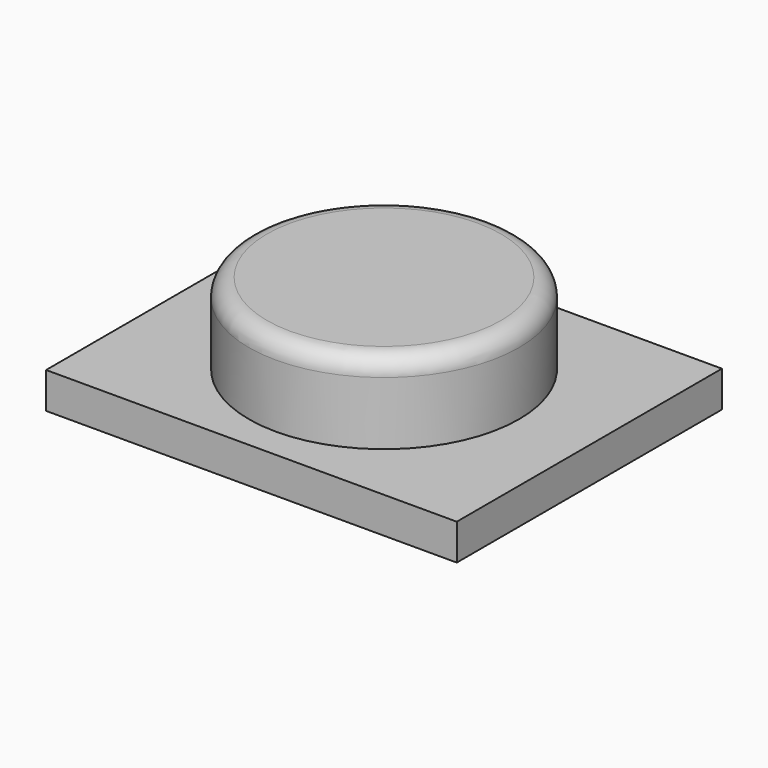
from build123d import *

# Parameters (mm, degrees)
SKETCH037_R  = 0.75
PAD023_DEPTH = 0.45
SKETCH038_W  = 2.28
SKETCH038_H  = 1.84
PAD024_DEPTH = 0.2
FILLET005_R  = 0.1


with BuildPart() as part:
    # Sketch037 (on DatumPlane) → Pad023 (new body)
    with BuildSketch(Plane.XY.offset(1.5)):
        Circle(SKETCH037_R)
    extrude(amount=-PAD023_DEPTH)

    # Sketch038 (on Face3 of Pad023) → Pad024 (join)
    with BuildSketch(Plane(origin=(0, 0, 1.05), x_dir=(1, 0, 0), z_dir=(0, 0, -1))):
        Rectangle(SKETCH038_W, SKETCH038_H)
    extrude(amount=PAD024_DEPTH)

    # Fillet005
    fillet005_edges = [part.edges().sort_by_distance(p)[0] for p in [
        (-0.75, 0, 1.5),
    ]]
    fillet(fillet005_edges, radius=FILLET005_R)


solid = part.part
